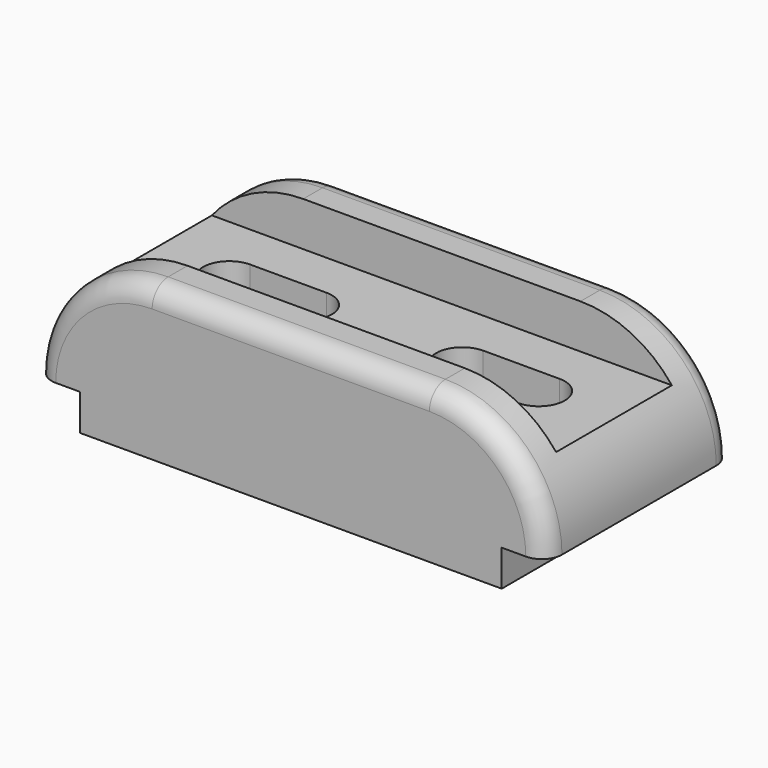
from build123d import *

# Parameters (mm, degrees)
F1_DEPTH      = 58
F2_W          = 36
F2_H          = 11
F3_DEPTH      = 63.501
F3_DEPTH_BACK = 63.501
F5_DEPTH      = 27.001
F6_R          = 5


with BuildPart() as f1:
    # F0 (on Front) → F1 (new body)
    with BuildSketch(Plane.XZ):
        with BuildLine():
            Line((0, 38), (0, 0))
            Line((0, 0), (52.5, 0))
            Line((52.5, 0), (52.5, 9))
            Line((52.5, 9), (63.5, 9))
            ThreePointArc((63.5, 9), (55.0060966544, 29.5060966544), (34.5, 38))
            Line((34.5, 38), (0, 38))
        make_face()
        with BuildLine():
            Line((-52.5, 0), (0, 0))
            Line((0, 0), (0, 38))
            Line((0, 38), (-34.5, 38))
            ThreePointArc((-34.5, 38), (-55.0060966544, 29.5060966544), (-63.5, 9))
            Line((-63.5, 9), (-52.5, 9))
            Line((-52.5, 9), (-52.5, 0))
        make_face()
    extrude(amount=F1_DEPTH)

    # F2 (on Right) → F3 (cut, two sides)
    with BuildSketch(Plane.YZ) as f3_sk:
        with Locations((-29, 32.5)):
            Rectangle(F2_W, F2_H)
    extrude(amount=-F3_DEPTH, mode=Mode.SUBTRACT)
    extrude(f3_sk.sketch, amount=F3_DEPTH_BACK, mode=Mode.SUBTRACT)

    # F4 (on face) → F5 (cut, through all)
    with BuildSketch(Plane.XY.offset(27)):
        with BuildLine():
            Line((-19.5, -22.5), (-38.5, -22.5))
            ThreePointArc((-38.5, -22.5), (-45, -29), (-38.5, -35.5))
            Line((-38.5, -35.5), (-19.5, -35.5))
            ThreePointArc((-19.5, -35.5), (-13, -29), (-19.5, -22.5))
        make_face()
        with BuildLine():
            Line((38.5, -22.5), (19.5, -22.5))
            ThreePointArc((19.5, -22.5), (13, -29), (19.5, -35.5))
            Line((19.5, -35.5), (38.5, -35.5))
            ThreePointArc((38.5, -35.5), (45, -29), (38.5, -22.5))
        make_face()
    extrude(amount=-F5_DEPTH, mode=Mode.SUBTRACT)

    # F6
    f6_edges = [f1.edges().sort_by_distance(p)[0] for p in [
        (0, -58, 38),
        (0, 0, 38),
    ]]
    fillet(f6_edges, radius=F6_R)


solid = f1.part
